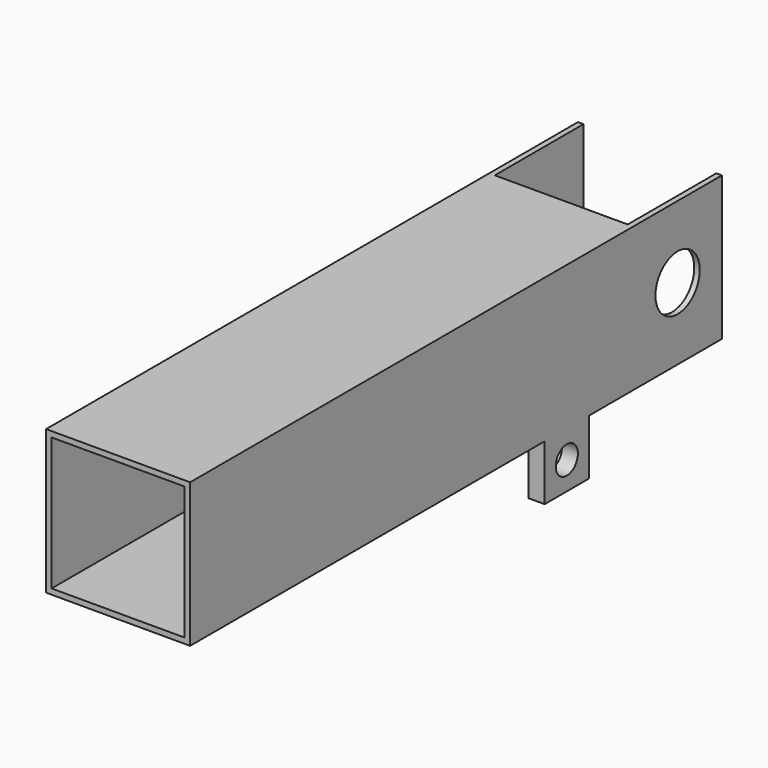
from build123d import *

# Parameters (mm, degrees)
F0_W      = 33.02
F0_H      = 33.02
F1_DEPTH  = 127
F2_W      = 30.48
F2_H      = 30.48
F3_DEPTH  = 127
F4_W      = 25.4
F4_H      = 33.02
F4_R      = 6.35
F5_DEPTH  = 33.02
F6_W      = 30.48
F6_H      = 33.02
F7_DEPTH  = 25.4
F8_W      = 12.7
F8_H      = 12.7
F8_R      = 3.175
F9_DEPTH  = 33.02
F10_W     = 26.4536738396
F10_H     = 12.7
F11_DEPTH = 12.7


with BuildPart() as f1:
    # F0 (on Front) → F1 (new body)
    with BuildSketch(Plane.XZ):
        Rectangle(F0_W, F0_H)
    extrude(amount=F1_DEPTH)

    # F2 (on face) → F3 (cut)
    with BuildSketch(Plane.XZ.offset(127)):
        Rectangle(F2_W, F2_H)
    extrude(amount=-F3_DEPTH, mode=Mode.SUBTRACT)

    # F4 (on face) → F5 (join)
    with BuildSketch(Plane.YZ.offset(16.51)):
        with Locations((12.7, 0)):
            Rectangle(F4_W, F4_H)
        with Locations((12.7, 0)):
            Circle(F4_R, mode=Mode.SUBTRACT)
    extrude(amount=-F5_DEPTH)

    # F6 (on face) → F7 (cut)
    with BuildSketch(Plane(origin=(0, 25.4, 0), x_dir=(-1, 0, 0), z_dir=(0, 1, 0))):
        Rectangle(F6_W, F6_H)
    extrude(amount=-F7_DEPTH, mode=Mode.SUBTRACT)

    # F8 (on face) → F9 (join)
    with BuildSketch(Plane.YZ.offset(16.51)):
        with Locations((-19.05, -22.86)):
            Rectangle(F8_W, F8_H)
        with Locations((-19.05, -22.86)):
            Circle(F8_R, mode=Mode.SUBTRACT)
    extrude(amount=-F9_DEPTH)

    # F10 (on face) → F11 (cut)
    with BuildSketch(Plane(origin=(0, 0, -29.21), x_dir=(1, 0, 0), z_dir=(0, 0, -1))):
        with Locations((-0.37084613, 19.05)):
            Rectangle(F10_W, F10_H)
    extrude(amount=-F11_DEPTH, mode=Mode.SUBTRACT)


solid = f1.part
